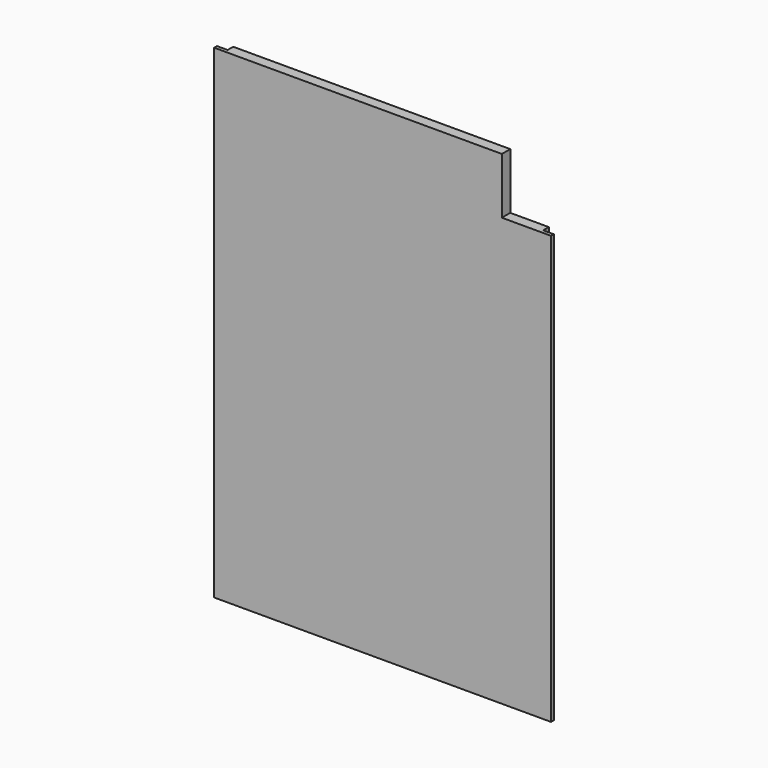
from build123d import *

# Parameters (mm, degrees)
F0_W     = 609.6
F0_H     = 438.15
F1_DEPTH = 9.525
F2_W     = 19.05
F2_H     = 876.3
F3_DEPTH = 12.7
F4_W     = 571.5
F4_H     = 19.05
F5_DEPTH = 6.35
F6_W     = 88.9
F6_H     = 101.6
F7_DEPTH = 19.051


with BuildPart() as f1:
    # F0 (on Front) → F1 (new body, symmetric)
    with BuildSketch(Plane.XZ):
        with Locations((56.8960046741, 219.075)):
            Rectangle(F0_W, F0_H)
        with Locations((56.8960046741, -219.075)):
            Rectangle(F0_W, F0_H)
    extrude(amount=F1_DEPTH, both=True)

    # F2 (on face) → F3 (cut)
    with BuildSketch(Plane(origin=(0, 9.525, 0), x_dir=(-1, 0, 0), z_dir=(0, 1, 0))):
        with Locations((-352.1710046741, 0)):
            Rectangle(F2_W, F2_H)
        with Locations((238.3789953259, 0)):
            Rectangle(F2_W, F2_H)
    extrude(amount=-F3_DEPTH, mode=Mode.SUBTRACT)

    # F4 (on face) → F5 (cut)
    with BuildSketch(Plane(origin=(0, 9.525, 0), x_dir=(-1, 0, 0), z_dir=(0, 1, 0))):
        with Locations((-56.8960046741, 309.5625)):
            Rectangle(F4_W, F4_H)
    extrude(amount=-F5_DEPTH, mode=Mode.SUBTRACT)

    # F6 (on face) → F7 (cut, through all)
    with BuildSketch(Plane.XZ.offset(9.525)):
        with Locations((317.2460046741, 387.35)):
            Rectangle(F6_W, F6_H)
    extrude(amount=-F7_DEPTH, mode=Mode.SUBTRACT)


solid = f1.part
